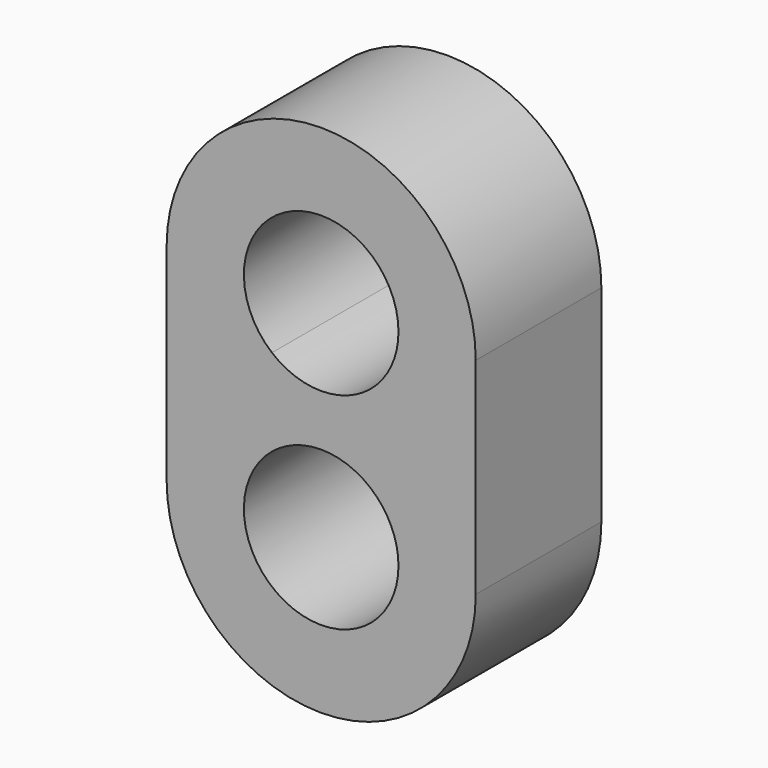
from build123d import *

# Parameters (mm, degrees)
F1_DEPTH = 7.62


with BuildPart() as f1:
    # F0 (on Front) → F1 (new body)
    with BuildSketch(Plane.XZ):
        with BuildLine():
            ThreePointArc((2.388888, 7.109375), (4.126586, 6.26269), (5.59017, 5))
            ThreePointArc((5.59017, 5), (7.006293, 7.323834), (7.5, 10))
            ThreePointArc((7.5, 10), (0, 17.5), (-7.5, 10))
            ThreePointArc((-7.5, 10), (-7.006293, 7.323834), (-5.59017, 5))
            ThreePointArc((-5.59017, 5), (-4.126586, 6.26269), (-2.388888, 7.109375))
            ThreePointArc((-2.388888, 7.109375), (-1.597524, 13.3927), (3.75, 10))
            ThreePointArc((3.75, 10), (3.3927, 8.402476), (2.388888, 7.109375))
        make_face()
        with BuildLine():
            ThreePointArc((-2.388888, 2.890625), (0, 3.75), (2.388888, 2.890625))
            ThreePointArc((2.388888, 2.890625), (4.126586, 3.73731), (5.59017, 5))
            ThreePointArc((5.59017, 5), (4.126586, 6.26269), (2.388888, 7.109375))
            ThreePointArc((2.388888, 7.109375), (0, 6.25), (-2.388888, 7.109375))
            ThreePointArc((-2.388888, 7.109375), (-4.126586, 6.26269), (-5.59017, 5))
            ThreePointArc((-5.59017, 5), (-4.126586, 3.73731), (-2.388888, 2.890625))
        make_face()
        with BuildLine():
            ThreePointArc((2.388888, 2.890625), (3.3927, 1.597524), (3.75, 0))
            ThreePointArc((3.75, 0), (-1.597524, -3.3927), (-2.388888, 2.890625))
            ThreePointArc((-2.388888, 2.890625), (-4.126586, 3.73731), (-5.59017, 5))
            ThreePointArc((-5.59017, 5), (-7.006293, 2.676166), (-7.5, 0))
            ThreePointArc((-7.5, 0), (0, -7.5), (7.5, 0))
            ThreePointArc((7.5, 0), (7.006293, 2.676166), (5.59017, 5))
            ThreePointArc((5.59017, 5), (4.126586, 3.73731), (2.388888, 2.890625))
        make_face()
        with BuildLine():
            ThreePointArc((7.5, 10), (7.006293, 7.323834), (5.59017, 5))
            ThreePointArc((5.59017, 5), (7.006293, 2.676166), (7.5, 0))
            Line((7.5, 0), (7.5, 10))
        make_face()
        with BuildLine():
            ThreePointArc((-7.5, 0), (-7.006293, 2.676166), (-5.59017, 5))
            ThreePointArc((-5.59017, 5), (-7.006293, 7.323834), (-7.5, 10))
            Line((-7.5, 10), (-7.5, 0))
        make_face()
    extrude(amount=F1_DEPTH)


solid = f1.part
